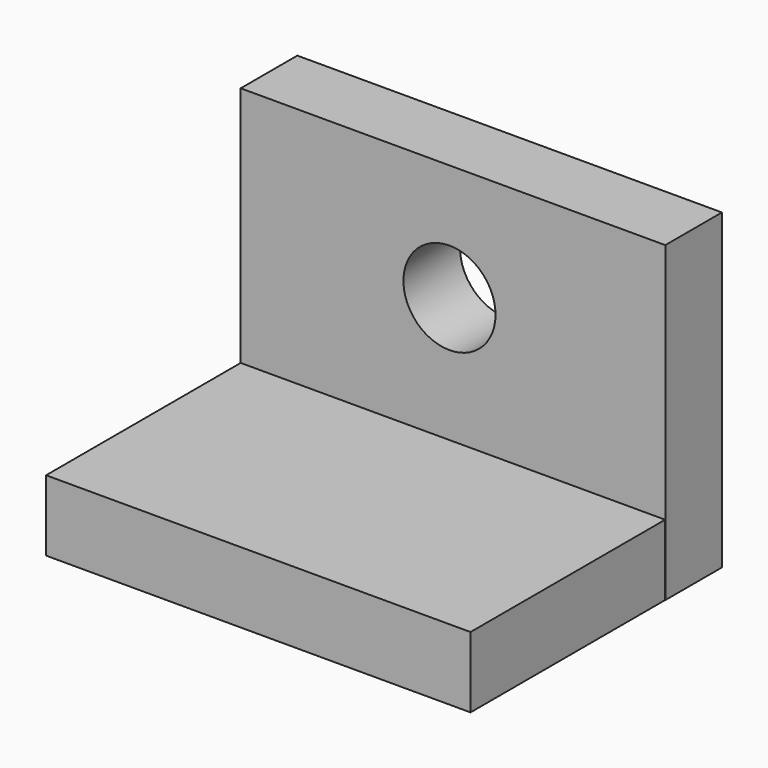
from build123d import *

# Parameters (mm, degrees)
F0_W     = 12.70453
F0_H     = 56.090336
F1_DEPTH = 76.2
F2_W     = 76.17075
F2_H     = 56.360215
F3_DEPTH = 12.7
F4_R     = 8.264296
F5_DEPTH = 25.4


with BuildPart() as f1:
    # F0 (on Right) → F1 (new body)
    with BuildSketch(Plane.YZ):
        with Locations((-6.352265, 28.045168)):
            Rectangle(F0_W, F0_H)
    extrude(amount=F1_DEPTH)

    # F2 (on Top) → F3 (join)
    with BuildSketch(Plane.XY):
        with Locations((38.085375, -28.180107)):
            Rectangle(F2_W, F2_H)
    extrude(amount=F3_DEPTH)

    # F4 (on face) → F5 (cut)
    with BuildSketch(Plane.XZ.offset(12.70453)):
        with Locations((37.471097, 35.167545)):
            Circle(F4_R)
    extrude(amount=-F5_DEPTH, mode=Mode.SUBTRACT)


solid = f1.part
